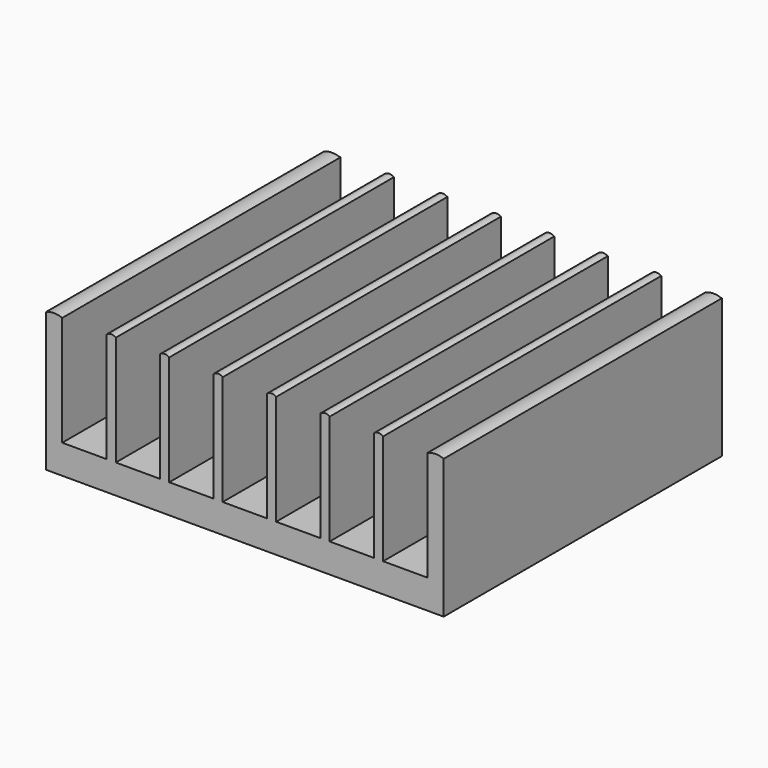
from build123d import *

# Parameters (mm, degrees)
F1_DEPTH = 27.3304
F2_DEPTH = 27.305


with BuildPart() as f1:
    # F0 (on Front) → F1 (new body)
    with BuildSketch(Plane.XZ):
        Polygon((0, -8.636), (0, 0), (-1.27, 0), (-1.27, -10.922), (29.972, -10.922), (29.972, 0), (28.702, 0), (28.702, -8.636), (25.21204, -8.636), (25.21204, 0), (24.50084, 0), (24.50084, -8.636), (21.01088, -8.636), (21.01088, 0), (20.29968, 0), (20.29968, -8.636), (16.80972, -8.636), (16.80972, 0), (16.09852, 0), (16.09852, -8.636), (12.60856, -8.636), (12.60856, 0), (11.89736, 0), (11.89736, -8.636), (8.4074, -8.636), (8.4074, 0), (7.6962, 0), (7.6962, -8.636), (4.20624, -8.636), (4.20624, 0), (3.49504, 0), (3.49504, -8.636), align=None)
    extrude(amount=-F1_DEPTH)

    # F0 (on Front) → F2 (join)
    with BuildSketch(Plane.XZ):
        Polygon((0, -8.636), (0, 0), (-1.27, 0), (-1.27, -10.922), (29.972, -10.922), (29.972, 0), (28.702, 0), (28.702, -8.636), (25.21204, -8.636), (25.21204, 0), (24.50084, 0), (24.50084, -8.636), (21.01088, -8.636), (21.01088, 0), (20.29968, 0), (20.29968, -8.636), (16.80972, -8.636), (16.80972, 0), (16.09852, 0), (16.09852, -8.636), (12.60856, -8.636), (12.60856, 0), (11.89736, 0), (11.89736, -8.636), (8.4074, -8.636), (8.4074, 0), (7.6962, 0), (7.6962, -8.636), (4.20624, -8.636), (4.20624, 0), (3.49504, 0), (3.49504, -8.636), align=None)
        with BuildLine():
            Line((-1.27, 0), (0, 0))
            ThreePointArc((0, 0), (-0.635, 0.121762), (-1.27, 0))
        make_face()
        with BuildLine():
            ThreePointArc((4.20624, 0), (3.85064, 0.125738), (3.49504, 0))
            Line((3.49504, 0), (4.20624, 0))
        make_face()
        with BuildLine():
            Line((28.702, 0), (29.972, 0))
            ThreePointArc((29.972, 0), (29.337, 0.127587), (28.702, 0))
        make_face()
        with BuildLine():
            ThreePointArc((8.4074, 0), (8.0518, 0.125978), (7.6962, 0))
            Line((7.6962, 0), (8.4074, 0))
        make_face()
        with BuildLine():
            Line((24.50084, 0), (25.21204, 0))
            ThreePointArc((25.21204, 0), (24.85644, 0.126338), (24.50084, 0))
        make_face()
        with BuildLine():
            ThreePointArc((12.60856, 0), (12.25296, 0.125978), (11.89736, 0))
            Line((11.89736, 0), (12.60856, 0))
        make_face()
        with BuildLine():
            Line((20.29968, 0), (21.01088, 0))
            ThreePointArc((21.01088, 0), (20.65528, 0.125978), (20.29968, 0))
        make_face()
        with BuildLine():
            ThreePointArc((16.80972, 0), (16.45412, 0.125978), (16.09852, 0))
            Line((16.09852, 0), (16.80972, 0))
        make_face()
    extrude(amount=-F2_DEPTH)


solid = f1.part
